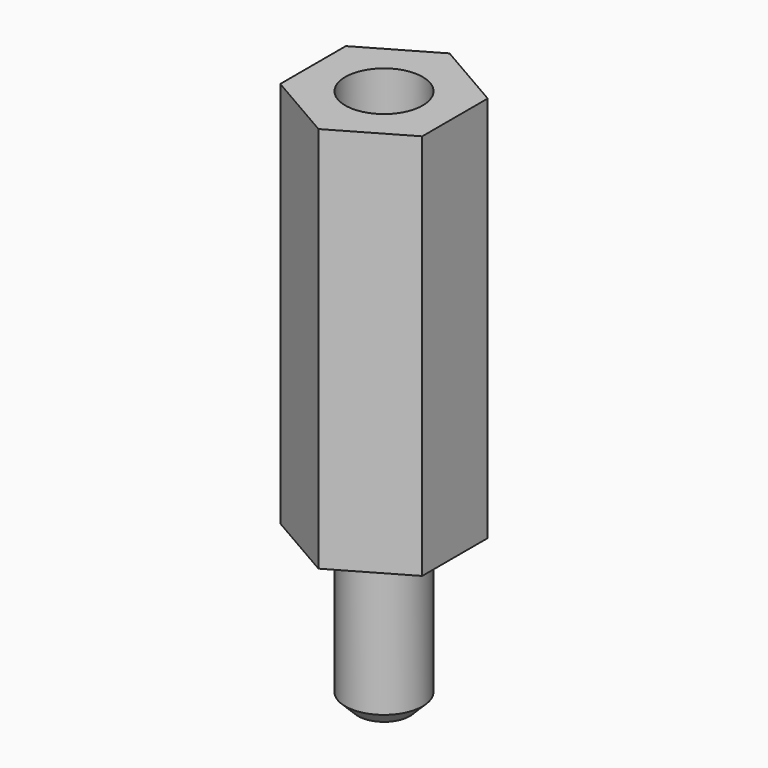
from build123d import *

# Parameters (mm, degrees)
PAD014_DEPTH    = 15
SKETCH032_R     = 1.5
PAD013_DEPTH    = 6
SKETCH031_R     = 1.5
POCKET012_DEPTH = 8.5
CHAMFER011_SIZE = 1.5
CHAMFER012_SIZE = 0.5


with BuildPart() as part:
    # Sketch030 → Pad014 (new body)
    with BuildSketch(Plane.XY):
        Polygon((-2.75, -1.587713), (-2.75, 1.587713), (0, 3.175426), (2.75, 1.587713), (2.75, -1.587713), (0, -3.175426), align=None)
    extrude(amount=PAD014_DEPTH)

    # Sketch032 (on Face7 of Pad014) → Pad013 (new body)
    with BuildSketch(Plane(origin=(0, 0, 0), x_dir=(1, 0, 0), z_dir=(0, 0, -1))):
        Circle(SKETCH032_R)
    extrude(amount=PAD013_DEPTH)

    # Sketch031 (on Face5 of Pad013) → Pocket012 (cut)
    with BuildSketch(Plane.XY.offset(15)):
        Circle(SKETCH031_R)
    extrude(amount=-POCKET012_DEPTH, mode=Mode.SUBTRACT)

    # Chamfer011
    chamfer011_edges = [part.edges().sort_by_distance(p)[0] for p in [
        (-1.5, 0, 6.5),
    ]]
    chamfer(chamfer011_edges, length=CHAMFER011_SIZE)

    # Chamfer012
    chamfer012_edges = [part.edges().sort_by_distance(p)[0] for p in [
        (-1.5, 0, -6),
    ]]
    chamfer(chamfer012_edges, length=CHAMFER012_SIZE)


solid = part.part
